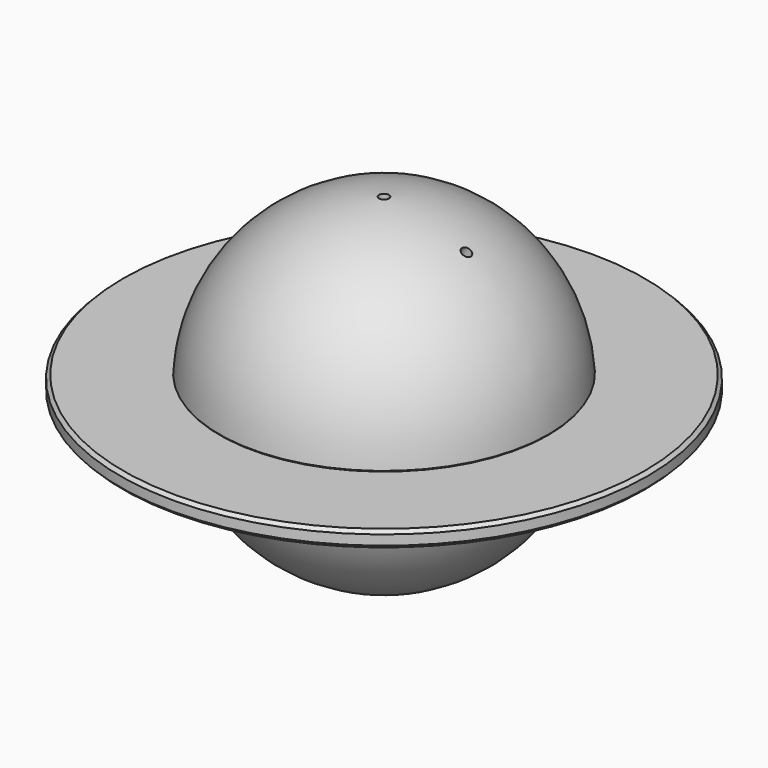
from build123d import *

# Parameters (mm, degrees)
F7_SIZE = 1


with BuildPart() as f1:
    # F0 (on Front) → F1 (revolve)
    with BuildSketch(Plane.XZ):
        with BuildLine():
            Line((48.3859889209, 1.5), (49.9221544192, 2.788995903))
            ThreePointArc((49.9221544192, 2.788995903), (34.8962476709, 35.8085450486), (1.5, 49.9774949352))
            Line((1.5, 49.9774949352), (1.5, 43.9774949352))
            Line((1.5, 43.9774949352), (9, 35.0393429908))
            Line((9, 35.0393429908), (9, 0))
            Line((9, 0), (48.3859889209, 0))
            Line((48.3859889209, 0), (48.3859889209, 1.5))
        make_face()
    revolve(axis=Axis((0, 0, 25), (0, 0, -1)))


with BuildPart() as f2_1:
    # F2: instance of F1
    add(f1.part.mirror(Plane.XY))


with BuildPart() as f4:
    # F3 (on Front) → F4 (revolve)
    with BuildSketch(Plane.XZ):
        Polygon((80, 2.5), (49.7333148962, 2.5), (48.5859889209, 1.5372791973), (48.5859889209, -1.5372791973), (49.7333148962, -2.5), (80, -2.5), align=None)
    revolve(axis=Axis((0, 0, -10.6168898342), (0, 0, -1)))

    # F7
    f7_edges = [f4.edges().sort_by_distance(p)[0] for p in [
        (-80, 0, 2.5),
        (-80, 0, -2.5),
    ]]
    chamfer(f7_edges, length=F7_SIZE)


with BuildPart() as f1_1:
    add(f1.part)

    # F5 (on Front) → F6 (revolve, cut)
    with BuildSketch(Plane.XZ):
        Polygon((25.4728585, 44.120285136), (16.9728585, 29.3978532717), (19.1657118001, 30.195986601), (26.7718966057, 43.370285136), align=None)
    revolve(axis=Axis((15.0316451473, 0, 26.0355731166), (0.5, 0, 0.8660254038)), mode=Mode.SUBTRACT)


solid = Compound([f2_1.part, f4.part, f1_1.part])
